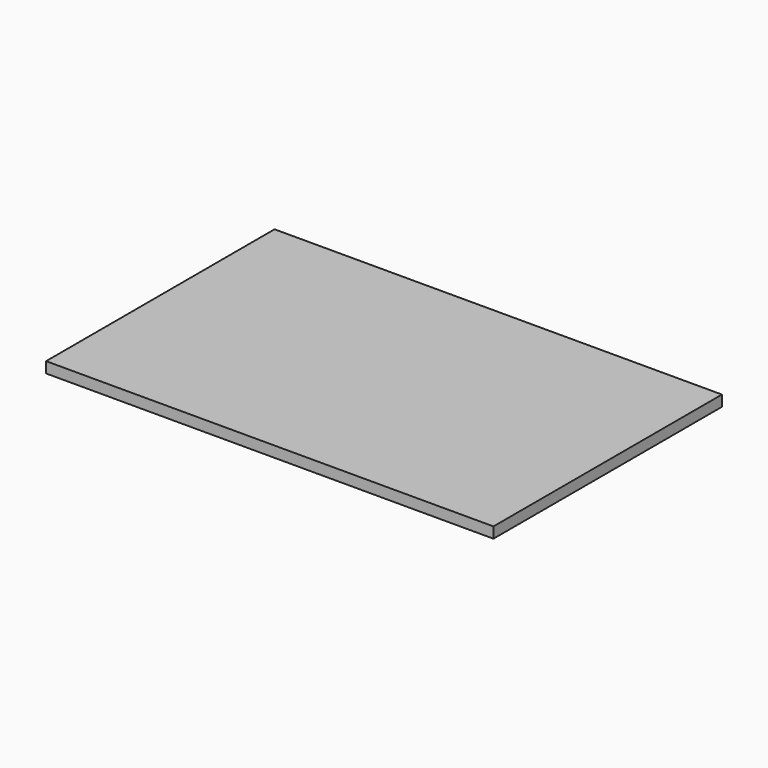
from build123d import *

# Parameters (mm, degrees)
SKETCH_W     = 123.756
SKETCH_H     = 79
PAD_DEPTH    = 3
SKETCH001_W  = 2
SKETCH001_H  = 11
PAD001_DEPTH = 5
SKETCH002_W  = 11
SKETCH002_H  = 2.5
PAD002_DEPTH = 4
SKETCH003_W  = 2
SKETCH003_H  = 11
PAD003_DEPTH = 2
FILLET_R     = 1


with BuildPart() as part:
    # Sketch → Pad (new body)
    with BuildSketch(Plane.XY):
        Rectangle(SKETCH_W, SKETCH_H)
    extrude(amount=PAD_DEPTH)

    # Sketch001 (on Face5 of Pad) → Pad001 (join)
    with BuildSketch(Plane(origin=(0, 0, 0), x_dir=(1, 0, 0), z_dir=(0, 0, -1))):
        Rectangle(SKETCH001_W, SKETCH001_H)
    extrude(amount=PAD001_DEPTH)

    # Sketch002 (on Face7 of Pad001) → Pad002 (join)
    with BuildSketch(Plane(origin=(-1, 0, 0), x_dir=(0, -1, 0), z_dir=(-1, 0, 0))):
        with Locations((0, -3.75)):
            Rectangle(SKETCH002_W, SKETCH002_H)
    extrude(amount=PAD002_DEPTH)

    # Sketch003 (on Face16 of Pad002) → Pad003 (join)
    with BuildSketch(Plane(origin=(0, 0, -2.5), x_dir=(1, 0, 0), z_dir=(0, 0, -1))):
        with Locations((-4, 0)):
            Rectangle(SKETCH003_W, SKETCH003_H)
    extrude(amount=-PAD003_DEPTH)

    # Fillet
    fillet_edges = [part.edges().sort_by_distance(p)[0] for p in [
        (1, -5.5, -2.5),
        (1, 5.5, -2.5),
        (1, 0, 0),
        (1, 0, -5),
        (0, -5.5, -5),
        (0, 5.5, -5),
        (-1, 0, -5),
        (-3, -5.5, -5),
        (-3, 5.5, -5),
        (-5, 0, -5),
        (-5, 0, -2.5),
        (-5, -5.5, -3.75),
        (-5, 5.5, -3.75),
        (-5, 5.5, -1.5),
        (-5, -5.5, -1.5),
        (-5, 0, -0.5),
    ]]
    fillet(fillet_edges, radius=FILLET_R)


solid = part.part
